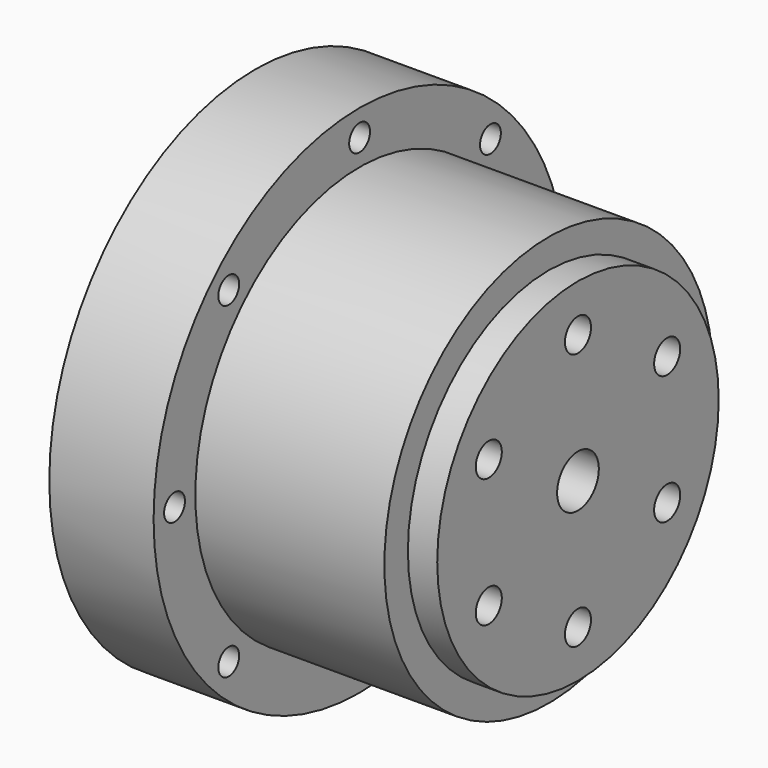
from build123d import *

# Parameters (mm, degrees)
F0_R     = 31.5
F0_R_2   = 26.9875
F1_DEPTH = 45
F0_R_3   = 39.5
F0_R_4   = 2
F2_DEPTH = 16
F0_R_5   = 2.5
F0_R_6   = 4
F3_DEPTH = 49.5


with BuildPart() as f1:
    # F0 (on Right) → F1 (new body)
    with BuildSketch(Plane.YZ):
        Circle(F0_R)
        Circle(F0_R_2, mode=Mode.SUBTRACT)
    extrude(amount=F1_DEPTH)

    # F0 (on Right) → F2 (join)
    with BuildSketch(Plane.YZ):
        Circle(F0_R_3)
        with Locations((-25.090836, -25.090836)):
            Circle(F0_R_4, mode=Mode.SUBTRACT)
        with Locations((0, -35.4838)):
            Circle(F0_R_4, mode=Mode.SUBTRACT)
        with Locations((25.090836, -25.090836)):
            Circle(F0_R_4, mode=Mode.SUBTRACT)
        with Locations((-35.4838, 0)):
            Circle(F0_R_4, mode=Mode.SUBTRACT)
        with Locations((-25.090836, 25.090836)):
            Circle(F0_R_4, mode=Mode.SUBTRACT)
        Circle(F0_R, mode=Mode.SUBTRACT)
        with Locations((35.4838, 0)):
            Circle(F0_R_4, mode=Mode.SUBTRACT)
        with Locations((0, 35.4838)):
            Circle(F0_R_4, mode=Mode.SUBTRACT)
        with Locations((25.090836, 25.090836)):
            Circle(F0_R_4, mode=Mode.SUBTRACT)
    extrude(amount=F2_DEPTH)

    # F0 (on Right) → F3 (join)
    with BuildSketch(Plane.YZ):
        Circle(F0_R_2)
        with Locations((-17.102703, -9.87425)):
            Circle(F0_R_5, mode=Mode.SUBTRACT)
        with Locations((0, -19.7485)):
            Circle(F0_R_5, mode=Mode.SUBTRACT)
        with Locations((17.102703, -9.87425)):
            Circle(F0_R_5, mode=Mode.SUBTRACT)
        with Locations((-17.102703, 9.87425)):
            Circle(F0_R_5, mode=Mode.SUBTRACT)
        Circle(F0_R_6, mode=Mode.SUBTRACT)
        with Locations((17.102703, 9.87425)):
            Circle(F0_R_5, mode=Mode.SUBTRACT)
        with Locations((0, 19.7485)):
            Circle(F0_R_5, mode=Mode.SUBTRACT)
    extrude(amount=F3_DEPTH)


solid = f1.part
